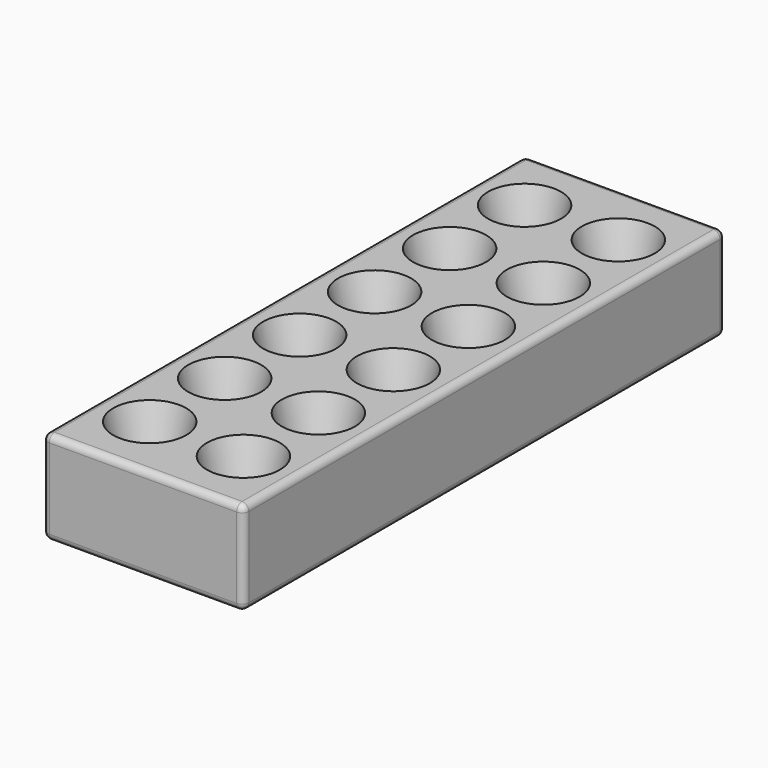
from build123d import *

# Parameters (mm, degrees)
ARRAY_X_COUNT = 2
ARRAY_X_PITCH = 7
ARRAY_Y_COUNT = 6
ARRAY_Y_PITCH = 7
BOX_W         = 15
BOX_H         = 45
BOX_DEPTH     = 7
FILLET_R      = 0.5


with BuildPart() as array:
    # Cone → Cone (revolve)
    with BuildSketch(Plane(origin=(3.5, 5, 0), x_dir=(1, 0, 0), z_dir=(0, -1, 0))):
        Polygon((0, 0), (1, 0), (2.75, 6.99), (0, 6.99), align=None)
    revolve(axis=Axis((3.5, 5, 0), (0, 0, 1)))

    # Array X: Array ×2


with BuildPart() as array_1:
    add(array.part)
    with Locations(*[(i * ARRAY_X_PITCH, 0, 0) for i in range(1, ARRAY_X_COUNT)]):
        add(array.part)

    # Array Y: Array ×6


with BuildPart() as array_2:
    add(array_1.part)
    with Locations(*[(0, i * ARRAY_Y_PITCH, 0) for i in range(1, ARRAY_Y_COUNT)]):
        add(array_1.part)


with BuildPart() as array_3:
    # Array placement: moved
    add(array_2.part.moved(Location((0, 0, 0.1))))


with BuildPart() as cut:
    # Box → Box (new body)
    with BuildSketch(Plane(origin=(-0.5, 0, 0), x_dir=(1, 0, 0), z_dir=(0, 0, 1))):
        with Locations((7.5, 22.5)):
            Rectangle(BOX_W, BOX_H)
    extrude(amount=BOX_DEPTH)

    # Fillet
    fillet_edges = [cut.edges().sort_by_distance(p)[0] for p in [
        (-0.5, 0, 3.5),
        (-0.5, 22.5, 7),
        (-0.5, 45, 3.5),
        (-0.5, 22.5, 0),
        (14.5, 0, 3.5),
        (14.5, 22.5, 7),
        (14.5, 45, 3.5),
        (14.5, 22.5, 0),
        (7, 0, 0),
        (7, 0, 7),
        (7, 45, 0),
        (7, 45, 7),
    ]]
    fillet(fillet_edges, radius=FILLET_R)

    # Cut: cut Array
    add(array_3.part, mode=Mode.SUBTRACT)


solid = cut.part
